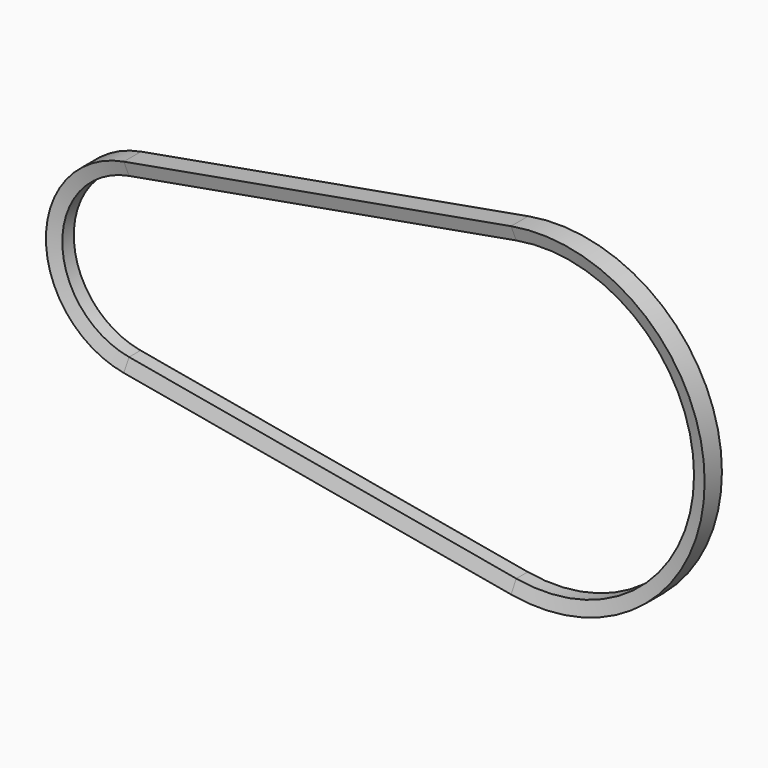
from build123d import *


with BuildPart() as f4:
    # F4: sweep along a path in F0
    with BuildLine(Plane.XZ) as f4_path:
        ThreePointArc((-15.6175675676, -87.5174358815), (88.9, 0), (-15.6175675676, 87.5174358815))
        Line((-15.6175675676, 87.5174358815), (-243.3165540541, 46.8843406508))
        ThreePointArc((-243.3165540541, 46.8843406508), (-282.575, 0), (-243.3165540541, -46.8843406508))
        Line((-243.3165540541, -46.8843406508), (-15.6175675676, -87.5174358815))
    # F3 (on line) → F4 (sweep)
    with BuildSketch(Plane(origin=(-113.8494932432, 0, 20.3165476153), x_dir=(0, -1, 0), z_dir=(-0.9844480977, 0, 0.1756756757))):
        Polygon((-6.35, -96.8375), (6.35, -96.8375), (4.2231532851, -88.9), (-4.2231532851, -88.9), align=None)
    sweep(path=f4_path.line)


solid = f4.part
